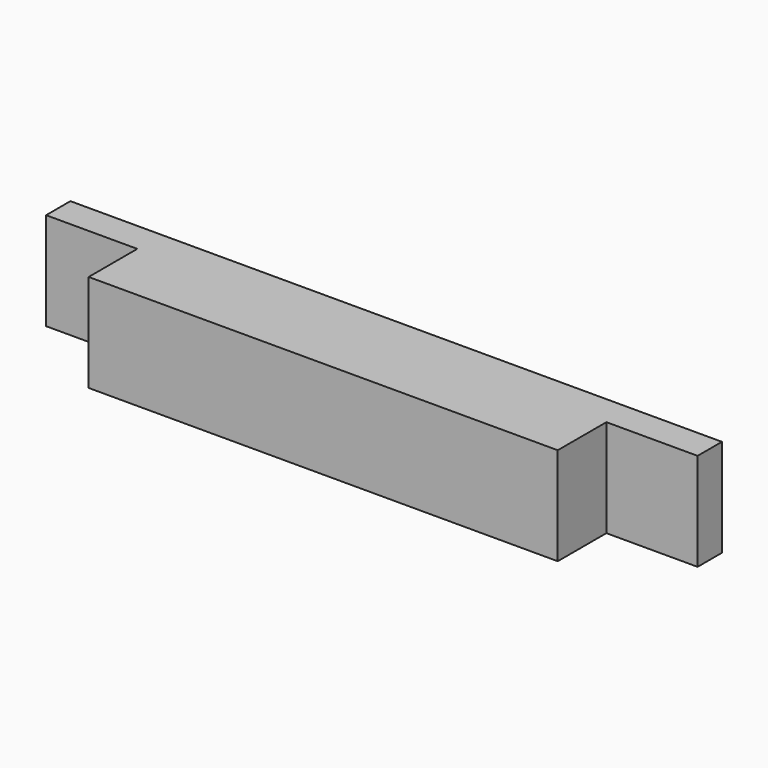
from build123d import *

# Parameters (mm, degrees)
F0_W     = 762
F0_H     = 114.3
F1_DEPTH = 35.56
F2_W     = 548.64
F2_H     = 114.3
F3_DEPTH = 71.12


with BuildPart() as f1:
    # F0 (on Front) → F1 (new body)
    with BuildSketch(Plane.XZ):
        Rectangle(F0_W, F0_H)
    extrude(amount=F1_DEPTH)

    # F2 (on face) → F3 (join)
    with BuildSketch(Plane.XZ.offset(35.56)):
        Rectangle(F2_W, F2_H)
    extrude(amount=F3_DEPTH)


solid = f1.part
